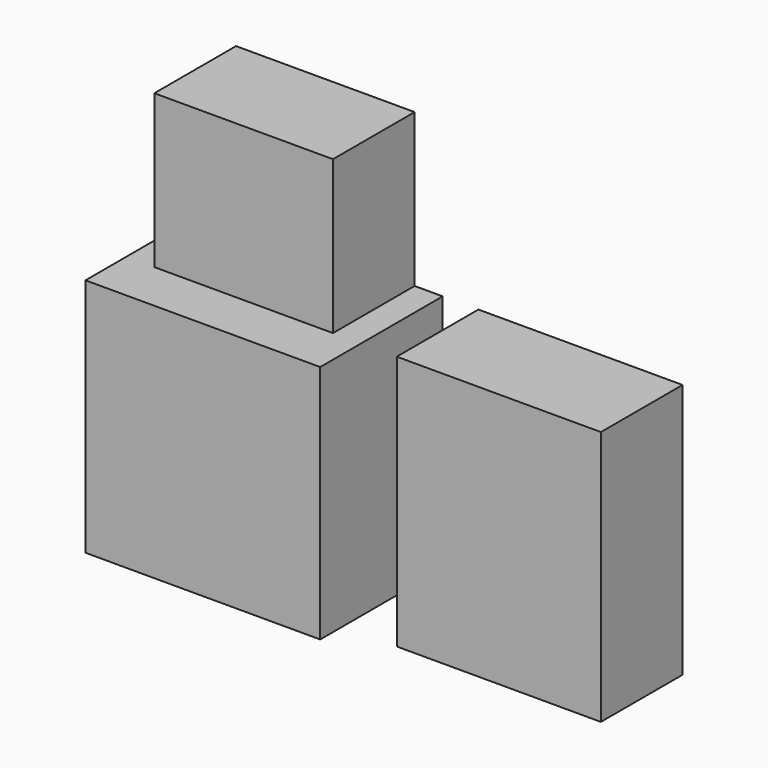
from build123d import *

# Parameters (mm, degrees)
F0_W     = 460
F0_H     = 470
F1_DEPTH = 300
F2_W     = 400
F2_H     = 500
F3_DEPTH = 200


with BuildPart() as f1:
    # F0 (on Front) → F1 (new body)
    with BuildSketch(Plane.XZ):
        with Locations((-230, 235)):
            Rectangle(F0_W, F0_H)
    extrude(amount=-F1_DEPTH)

    # F2 (on face) → F3 (join)
    with BuildSketch(Plane(origin=(0, 300, 0), x_dir=(-1, 0, 0), z_dir=(0, 1, 0))):
        Polygon((55, 470), (230, 470), (405, 470), (405, 770), (55, 770), align=None)
        with Locations((-270, 220)):
            Rectangle(F2_W, F2_H)
    extrude(amount=-F3_DEPTH)


solid = f1.part
